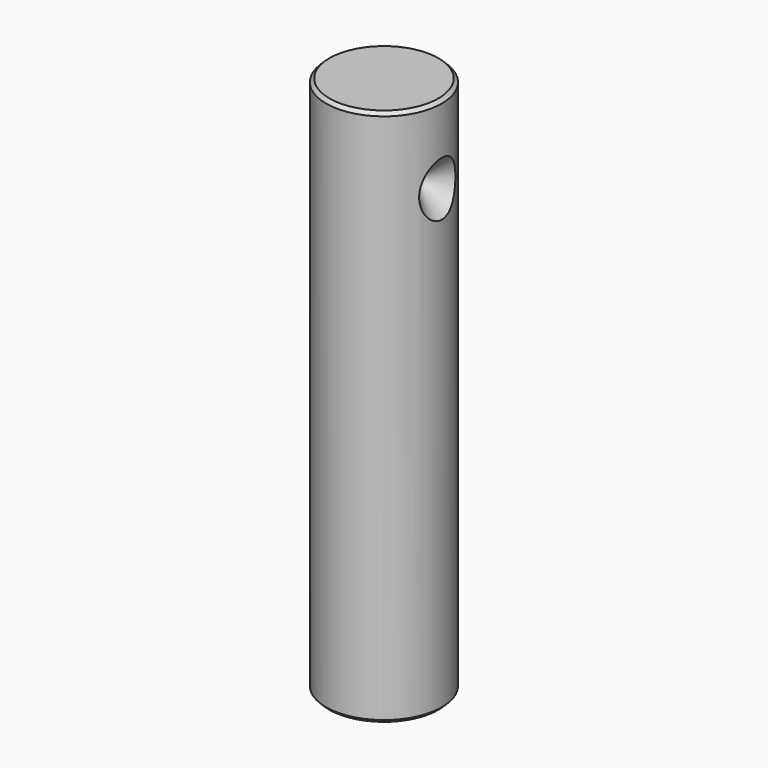
from build123d import *

# Parameters (mm, degrees)
F0_W    = 8.5
F0_H    = 79
F4_SIZE = 0.5


with BuildPart() as f1:
    # F0 (on Front) → F1 (revolve)
    with BuildSketch(Plane.XZ):
        with Locations((-4.25, 39.5)):
            Rectangle(F0_W, F0_H)
    revolve(axis=Axis((0, 0, 39.5), (0, 0, -1)))

    # F2 (on Front) → F3 (revolve, cut)
    with BuildSketch(Plane.XZ):
        Polygon((4.5, 67.5), (8.5, 67.5), (8.5, 71.5), align=None)
    revolve(axis=Axis((-1.373549, 0, 67.5), (1, 0, 0)), mode=Mode.SUBTRACT)

    # F4
    f4_edges = [f1.edges().sort_by_distance(p)[0] for p in [
        (8.5, 0, 79),
        (8.5, 0, 0),
    ]]
    chamfer(f4_edges, length=F4_SIZE)


solid = f1.part
